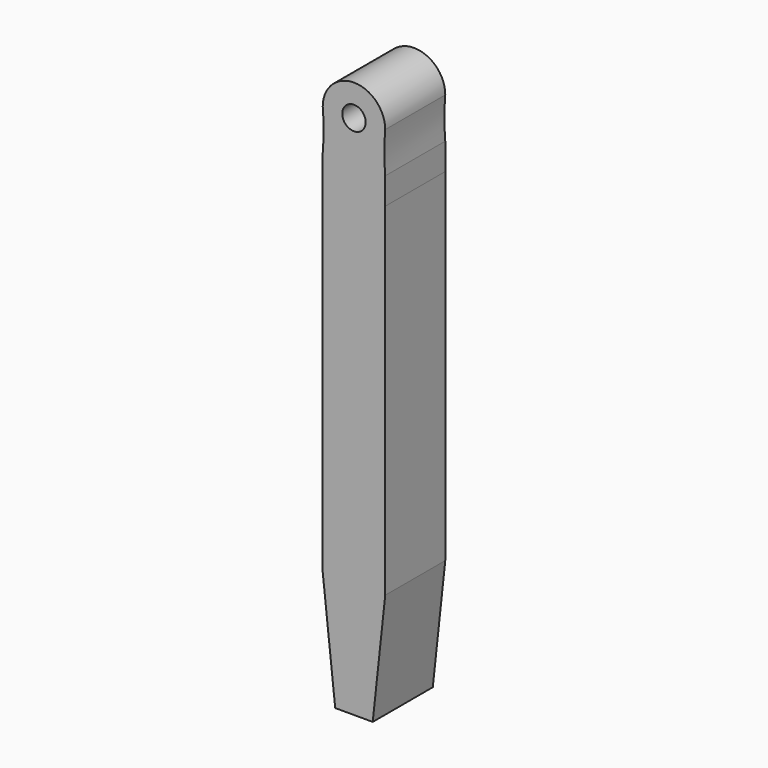
from build123d import *

# Parameters (mm, degrees)
F0_R     = 1.560353
F1_DEPTH = 10


with BuildPart() as f1:
    # F0 (on Front) → F1 (new body)
    with BuildSketch(Plane.XZ):
        with BuildLine():
            ThreePointArc((-4.160941, 24.608993), (-4.032911, 21.89542), (-4.160941, 19.181847))
            Line((-4.160941, 19.181847), (-4.160941, -29.993249))
            Line((-4.160941, -29.993249), (-2.5, -45.391009))
            Line((-2.5, -45.391009), (2.5, -45.391009))
            Line((2.5, -45.391009), (4.161059, -29.993249))
            Line((4.161059, -29.993249), (4.161059, 15.619488))
            Line((4.161059, 15.619488), (4.160941, 19.181847))
            ThreePointArc((4.160941, 19.181847), (4.032911, 21.89542), (4.160941, 24.608993))
            ThreePointArc((4.160941, 24.608993), (0, 28.769934), (-4.160941, 24.608993))
        make_face()
        with Locations((0, 24.608993)):
            Circle(F0_R, mode=Mode.SUBTRACT)
        with BuildLine():
            ThreePointArc((-4.160941, 24.608993), (-4.032911, 21.89542), (-4.160941, 19.181847))
            Line((-4.160941, 19.181847), (-4.160941, -29.993249))
            Line((-4.160941, -29.993249), (-2.5, -45.391009))
            Line((-2.5, -45.391009), (2.5, -45.391009))
            Line((2.5, -45.391009), (4.161059, -29.993249))
            Line((4.161059, -29.993249), (4.161059, 15.619488))
            Line((4.161059, 15.619488), (4.160941, 19.181847))
            ThreePointArc((4.160941, 19.181847), (4.032911, 21.89542), (4.160941, 24.608993))
            ThreePointArc((4.160941, 24.608993), (0, 28.769934), (-4.160941, 24.608993))
        make_face()
        with Locations((0, 24.608993)):
            Circle(F0_R, mode=Mode.SUBTRACT)
    extrude(amount=F1_DEPTH)


solid = f1.part
